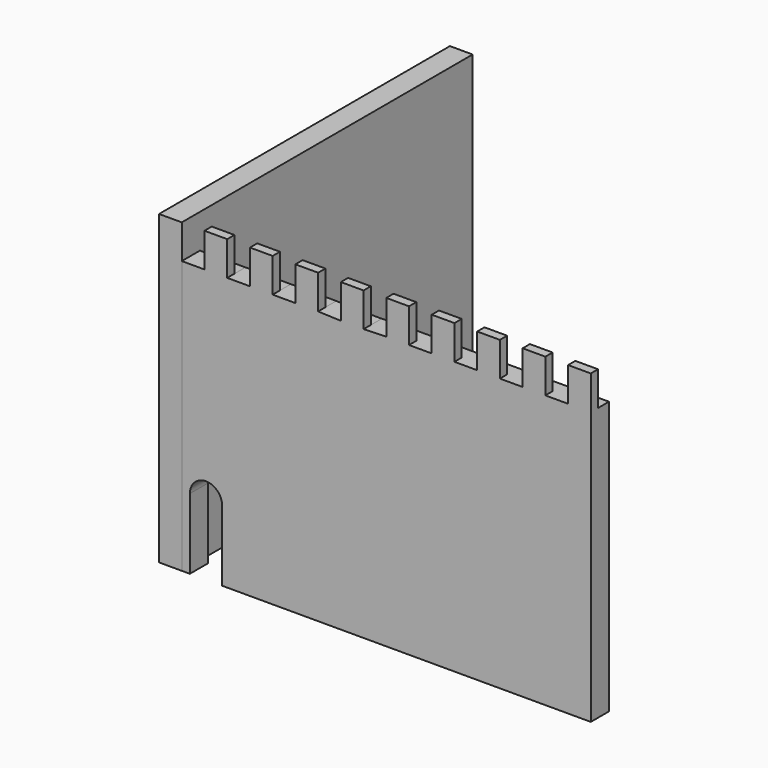
from build123d import *

# Parameters (mm, degrees)
F3_DEPTH = 40
F4_DEPTH = 5
F0_W     = 5
F0_H     = 7.5
F5_DEPTH = 2
F1_W     = 80
F1_H     = 67.5
F6_DEPTH = 5


with BuildPart() as f3:
    # F2 (on Top) → F3 (new body)
    with BuildSketch(Plane.XY):
        with BuildLine():
            Line((0, 27.450039), (0, 56.843915))
            ThreePointArc((0, 56.843915), (-18, 42.146977), (0, 27.450039))
        make_face()
    extrude(amount=F3_DEPTH)


with BuildPart() as f4:
    # F0 (on Front) → F4 (new body)
    with BuildSketch(Plane.XZ):
        with BuildLine():
            Line((0, 60), (0, 0))
            Line((0, 0), (6.779334, 0))
            Line((6.779334, 0), (6.779334, 15.531576))
            ThreePointArc((6.779334, 15.531576), (10.331965, 19.084208), (13.884597, 15.531576))
            Line((13.884597, 15.531576), (13.884597, 0))
            Line((13.884597, 0), (95, 0))
            Line((95, 0), (95, 60))
            Line((95, 60), (90, 60))
            Line((90, 60), (85, 60))
            Line((85, 60), (80, 60))
            Line((80, 60), (75, 60))
            Line((75, 60), (70, 60))
            Line((70, 60), (65, 60))
            Line((65, 60), (60, 60))
            Line((60, 60), (55, 60))
            Line((55, 60), (50, 60))
            Line((50, 60), (45, 59.817482))
            Line((45, 59.817482), (40, 59.817482))
            Line((40, 59.817482), (35, 59.999999))
            Line((35, 59.999999), (30, 59.999999))
            Line((30, 59.999999), (25, 60))
            Line((25, 60), (20, 60))
            Line((20, 60), (15, 59.999999))
            Line((15, 59.999999), (10, 59.999999))
            Line((10, 59.999999), (5, 60))
            Line((5, 60), (0, 60))
        make_face()
    extrude(amount=-F4_DEPTH)

    # F0 (on Front) → F5 (join)
    with BuildSketch(Plane.XZ):
        with Locations((2.5, 63.75)):
            Rectangle(F0_W, F0_H)
        with Locations((12.5, 63.749999)):
            Rectangle(F0_W, F0_H)
        with Locations((22.5, 63.75)):
            Rectangle(F0_W, F0_H)
        with Locations((32.5, 63.749999)):
            Rectangle(F0_W, F0_H)
        with Locations((42.5, 63.567482)):
            Rectangle(F0_W, F0_H)
        with Locations((52.5, 63.75)):
            Rectangle(F0_W, F0_H)
        with Locations((62.5, 63.75)):
            Rectangle(F0_W, F0_H)
        with Locations((72.5, 63.75)):
            Rectangle(F0_W, F0_H)
        with Locations((82.5, 63.75)):
            Rectangle(F0_W, F0_H)
        with Locations((92.5, 63.75)):
            Rectangle(F0_W, F0_H)
    extrude(amount=-F5_DEPTH)


with BuildPart() as f6:
    # F1 (on Right) → F6 (new body)
    with BuildSketch(Plane.YZ):
        with Locations((40, 33.75)):
            Rectangle(F1_W, F1_H)
    extrude(amount=F6_DEPTH)


solid = Compound([f3.part, f4.part, f6.part])
